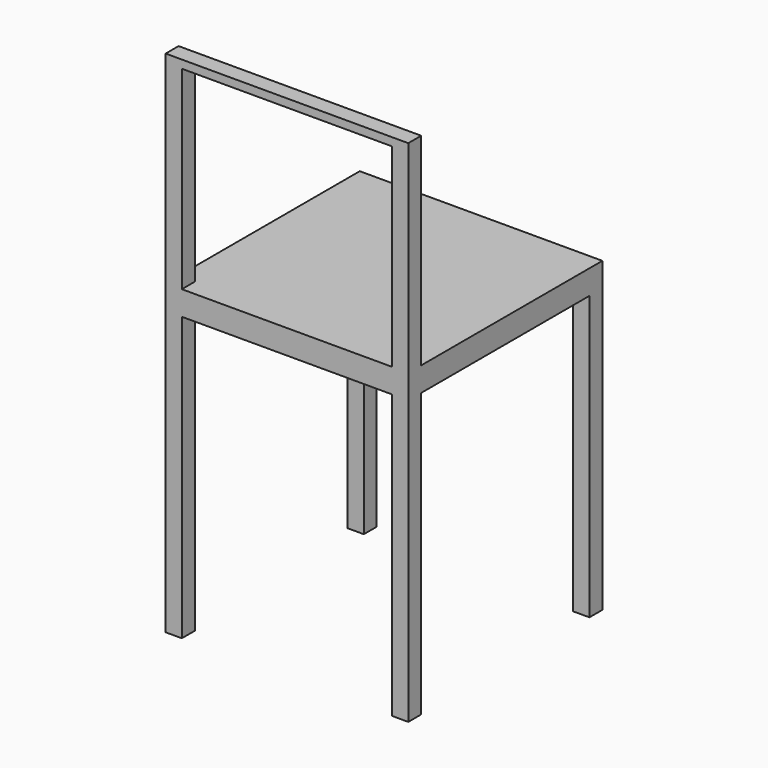
from build123d import *

# Parameters (mm, degrees)
F0_W     = 300
F0_H     = 300
F1_DEPTH = 30
F3_W     = 20
F3_H     = 20
F4_DEPTH = 350
F5_W     = 20
F5_H     = 20
F6_DEPTH = 250
F7_W     = 20
F7_H     = 10
F8_DEPTH = 260


with BuildPart() as f1:
    # F0 (on Top) → F1 (new body)
    with BuildSketch(Plane.XY):
        with Locations((0.250861, 3.03171)):
            Rectangle(F0_W, F0_H)
    extrude(amount=F1_DEPTH)

    # F3 (on face) → F4 (join)
    with BuildSketch(Plane(origin=(0, 0, 0), x_dir=(1, 0, 0), z_dir=(0, 0, -1))):
        with Locations((-138.477522, -142.692491)):
            Rectangle(F3_W, F3_H)
        with Locations((-139.749139, 136.96829)):
            Rectangle(F3_W, F3_H)
        with Locations((140.250861, -143.03171)):
            Rectangle(F3_W, F3_H)
        with Locations((140.250861, 136.96829)):
            Rectangle(F3_W, F3_H)
    extrude(amount=F4_DEPTH)

    # F5 (on face) → F6 (join)
    with BuildSketch(Plane.XY.offset(30)):
        with Locations((140.250861, -136.96829)):
            Rectangle(F5_W, F5_H)
        with Locations((-139.749139, -136.96829)):
            Rectangle(F5_W, F5_H)
    extrude(amount=F6_DEPTH)

    # F7 (on face) → F8 (join)
    with BuildSketch(Plane(origin=(130.250861, 0, 0), x_dir=(0, -1, 0), z_dir=(-1, 0, 0))):
        with Locations((136.96829, 275)):
            Rectangle(F7_W, F7_H)
    extrude(amount=F8_DEPTH)


solid = f1.part
